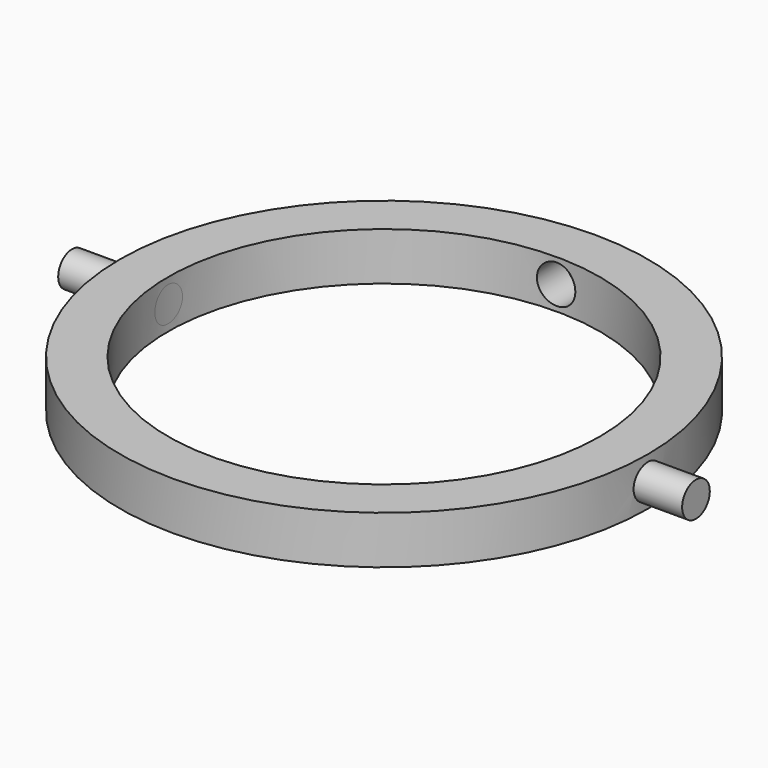
from build123d import *

# Parameters (mm, degrees)
F0_R     = 34.925
F0_R_2   = 28.575
F1_DEPTH = 3.175
F2_R     = 2.286
F3_DEPTH = 41.275
F4_R     = 2.54
F5_DEPTH = 33.3375
F6_DEPTH = 12.7


with BuildPart() as f1:
    # F0 (on Top) → F1 (new body, symmetric)
    with BuildSketch(Plane.XY):
        Circle(F0_R)
        Circle(F0_R_2, mode=Mode.SUBTRACT)
    extrude(amount=F1_DEPTH, both=True)

    # F2 (on Right) → F3 (join, symmetric)
    with BuildSketch(Plane.YZ):
        Circle(F2_R)
    extrude(amount=F3_DEPTH, both=True)

    # F4 (on Front) → F5 (cut, symmetric)
    with BuildSketch(Plane.XZ):
        Circle(F4_R)
    extrude(amount=F5_DEPTH, both=True, mode=Mode.SUBTRACT)

    # F0 (on Top) → F6 (cut, symmetric)
    with BuildSketch(Plane.XY):
        Circle(F0_R_2)
    extrude(amount=F6_DEPTH, both=True, mode=Mode.SUBTRACT)


solid = f1.part
